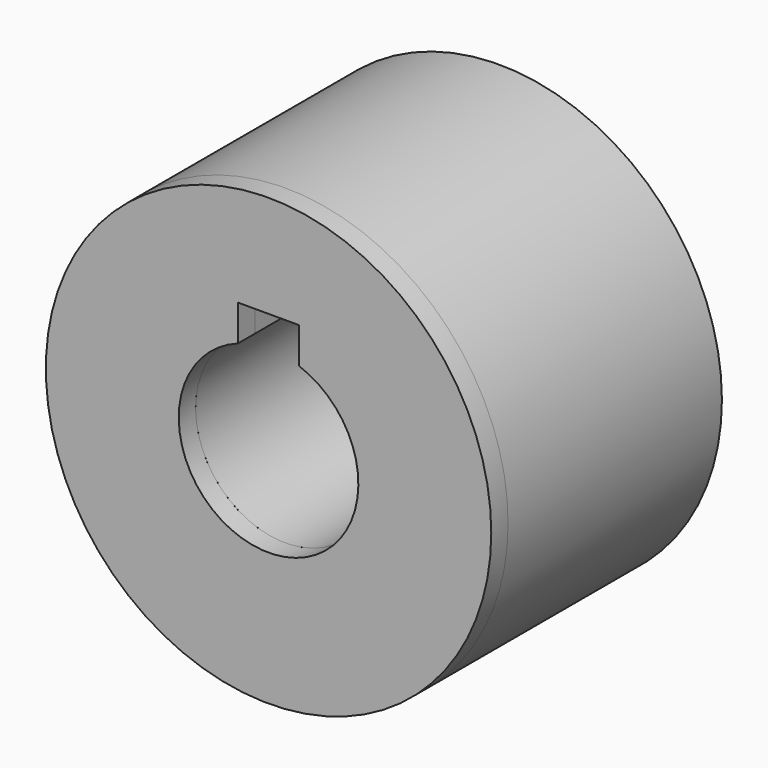
from build123d import *

# Parameters (mm, degrees)
F0_R     = 15.875
F0_R_2   = 6.4008
F1_DEPTH = 19.05
F2_W     = 4.365626
F2_H     = 4.365625
F3_DEPTH = 10.715625
F4_R     = 15.875
F5_DEPTH = 1.5
F6_R     = 9.8425
F6_R_2   = 6.4008
F7_DEPTH = 1.8


with BuildPart() as f1:
    # F0 (on Front) → F1 (new body)
    with BuildSketch(Plane.XZ):
        Circle(F0_R)
        Circle(F0_R_2, mode=Mode.SUBTRACT)
    extrude(amount=F1_DEPTH)

    # F2 (on face) → F3 (cut)
    with BuildSketch(Plane.XZ.offset(19.05)):
        with Locations((0, 6.4008)):
            Rectangle(F2_W, F2_H)
    extrude(amount=-F3_DEPTH, mode=Mode.SUBTRACT)


with BuildPart() as f5:
    # F4 (on face) → F5 (new body)
    with BuildSketch(Plane.XZ.offset(19.05)):
        Circle(F4_R)
        with BuildLine():
            ThreePointArc((2.182813, 6.017106), (0, -6.4008), (-2.182813, 6.017106))
            Line((-2.182813, 6.017106), (-2.182813, 8.583613))
            Line((-2.182813, 8.583613), (2.182813, 8.583613))
            Line((2.182813, 8.583613), (2.182813, 6.017106))
        make_face(mode=Mode.SUBTRACT)
    extrude(amount=F5_DEPTH)


with BuildPart() as f7:
    # F6 (on face) → F7 (new body)
    with BuildSketch(Plane(origin=(0, 0, 0), x_dir=(-1, 0, 0), z_dir=(0, 1, 0))):
        Circle(F6_R)
        Circle(F6_R_2, mode=Mode.SUBTRACT)
    extrude(amount=F7_DEPTH)


solid = Compound([f1.part, f5.part, f7.part])
